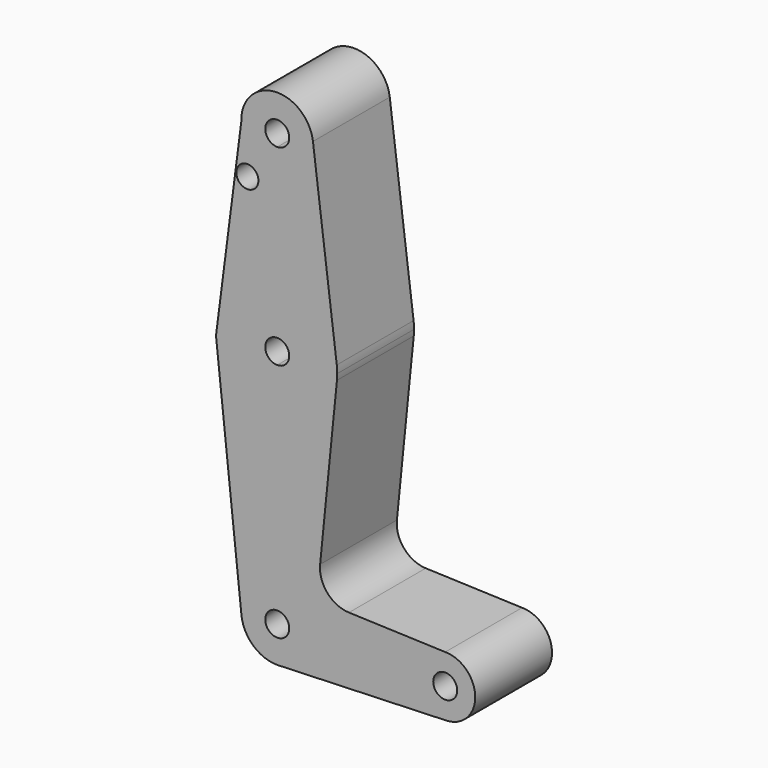
from build123d import *

# Parameters (mm, degrees)
F0_R     = 2.9240242171
F1_DEPTH = 25.4


with BuildPart() as f1:
    # F0 (on Front) → F1 (new body)
    with BuildSketch(Plane.XZ):
        with BuildLine():
            ThreePointArc((-9.5175899986, 89.6733759373), (-6.601047317, 83.1822994355), (0, 80.5240162142))
            ThreePointArc((0, 80.5240162142), (6.7351920908, 83.3138241234), (9.525, 90.0490162142))
            ThreePointArc((9.525, 90.0490162142), (9.5063048942, 90.6454994562), (9.4502929642, 91.2396412142))
            ThreePointArc((9.4502929642, 91.2396412142), (-0.7838551857, 99.5417079319), (-9.5175899986, 89.6733759373))
        make_face()
        with BuildLine():
            ThreePointArc((3.175, 90.0490162142), (2.2450640303, 87.8039521839), (0, 86.8740162142))
            ThreePointArc((0, 86.8740162142), (-2.2450640303, 92.2940802445), (3.175, 90.0490162142))
        make_face(mode=Mode.SUBTRACT)
        with BuildLine():
            ThreePointArc((9.525, 90.0490162142), (6.7351920908, 83.3138241234), (0, 80.5240162142))
            Line((0, 80.5240162142), (0, 55.1240162142))
            ThreePointArc((0, 55.1240162142), (10.5003255158, 51.1552662142), (15.7504882737, 41.2333912142))
            Line((15.7504882737, 41.2333912142), (9.4502929642, 91.2396412142))
            ThreePointArc((9.4502929642, 91.2396412142), (9.5063048942, 90.6454994562), (9.525, 90.0490162142))
        make_face()
        with BuildLine():
            Line((0, 55.1240162142), (0, 80.5240162142))
            ThreePointArc((0, 80.5240162142), (-6.601047317, 83.1822994355), (-9.5175899986, 89.6733759373))
            Line((-9.5175899986, 89.6733759373), (-15.7451890335, 41.2750091314))
            ThreePointArc((-15.7451890335, 41.2750091314), (-10.4845836217, 51.1691307808), (0, 55.1240162142))
        make_face()
        with Locations((-7.9077519476, 77.4001702666)):
            Circle(F0_R, mode=Mode.SUBTRACT)
        with BuildLine():
            ThreePointArc((15.7504882737, 41.2333912142), (10.5003255158, 51.1552662142), (0, 55.1240162142))
            Line((0, 55.1240162142), (0, 42.4240162142))
            ThreePointArc((0, 42.4240162142), (2.2450640303, 41.4940802445), (3.175, 39.2490162142))
            ThreePointArc((3.175, 39.2490162142), (2.2450640303, 37.0039521839), (0, 36.0740162142))
            Line((0, 36.0740162142), (0, 23.3740162142))
            ThreePointArc((0, 23.3740162142), (10.6492737428, 27.4758011159), (15.7954255641, 37.6615162142))
            ThreePointArc((15.7954255641, 37.6615162142), (15.8550939106, 38.4542696601), (15.875, 39.2490162142))
            ThreePointArc((15.875, 39.2490162142), (15.8438414904, 40.2431549508), (15.7504882737, 41.2333912142))
        make_face()
        with BuildLine():
            Line((0, 42.4240162142), (0, 55.1240162142))
            ThreePointArc((0, 55.1240162142), (-10.4845836217, 51.1691307808), (-15.7451890335, 41.2750091314))
            ThreePointArc((-15.7451890335, 41.2750091314), (-11.9201145666, 28.7644325925), (0, 23.3740162142))
            Line((0, 23.3740162142), (0, 36.0740162142))
            ThreePointArc((0, 36.0740162142), (-3.175, 39.2490162142), (0, 42.4240162142))
        make_face()
        with BuildLine():
            ThreePointArc((0, 23.3740162142), (-11.9201145666, 28.7644325925), (-15.7451890335, 41.2750091314))
            Line((-15.7451890335, 41.2750091314), (-16.2073878987, 37.6829875368))
            Line((-16.2073878987, 37.6829875368), (-9.4709206869, -25.2645351372))
            ThreePointArc((-9.4709206869, -25.2645351372), (-7.0844795723, -17.8842126898), (0, -14.7259837858))
            Line((0, -14.7259837858), (0, 23.3740162142))
        make_face()
        with BuildLine():
            ThreePointArc((15.7954255641, 37.6615162142), (10.6492737428, 27.4758011159), (0, 23.3740162142))
            Line((0, 23.3740162142), (0, -14.7259837858))
            ThreePointArc((0, -14.7259837858), (6.7351920908, -17.515791695), (9.525, -24.2509837858))
            Line((9.525, -24.2509837858), (36.5125, -24.2509837858))
            ThreePointArc((36.5125, -24.2509837858), (38.8373399243, -18.6383237101), (44.45, -16.3134837858))
            Line((44.45, -16.3134837858), (18.9672152943, -15.403384332))
            ThreePointArc((18.9672152943, -15.403384332), (13.2606937919, -12.6853206287), (11.3406209777, -6.6632297674))
            Line((11.3406209777, -6.6632297674), (15.7954255641, 37.6615162142))
        make_face()
        with BuildLine():
            Line((0, -21.0759837858), (0, -14.7259837858))
            ThreePointArc((0, -14.7259837858), (-7.0844795723, -17.8842126898), (-9.4709206869, -25.2645351372))
            ThreePointArc((-9.4709206869, -25.2645351372), (-6.366771096, -31.3354633582), (0, -33.7759837858))
            Line((0, -33.7759837858), (0.6773435479, -33.7518695718))
            ThreePointArc((0.6773435479, -33.7518695718), (6.9705567315, -30.7422828741), (9.525, -24.2509837858))
            Line((9.525, -24.2509837858), (3.175, -24.2509837858))
            ThreePointArc((3.175, -24.2509837858), (-2.2450640303, -26.4960478161), (0, -21.0759837858))
        make_face()
        with BuildLine():
            Line((36.5125, -24.2509837858), (9.525, -24.2509837858))
            ThreePointArc((9.525, -24.2509837858), (6.9705567315, -30.7422828741), (0.6773435479, -33.7518695718))
            Line((0.6773435479, -33.7518695718), (44.7324052746, -32.1834584004))
            ThreePointArc((44.7324052746, -32.1834584004), (38.9380895153, -29.9626165697), (36.5125, -24.2509837858))
        make_face()
        with BuildLine():
            Line((0.6773435479, -33.7518695718), (0, -33.7759837858))
            ThreePointArc((0, -33.7759837858), (0.3388863295, -33.7699533233), (0.6773435479, -33.7518695718))
        make_face()
        with BuildLine():
            ThreePointArc((44.45, -16.3134837858), (38.8373399243, -18.6383237101), (36.5125, -24.2509837858))
            ThreePointArc((36.5125, -24.2509837858), (38.9380895153, -29.9626165697), (44.7324052746, -32.1834584004))
            ThreePointArc((44.7324052746, -32.1834584004), (50.1616327839, -29.7628942705), (52.3875, -24.2509837858))
            ThreePointArc((52.3875, -24.2509837858), (50.0626600757, -18.6383237101), (44.45, -16.3134837858))
        make_face()
        with BuildLine():
            ThreePointArc((47.625, -24.2509837858), (44.45, -27.4259837858), (41.275, -24.2509837858))
            ThreePointArc((41.275, -24.2509837858), (44.45, -21.0759837858), (47.625, -24.2509837858))
        make_face(mode=Mode.SUBTRACT)
        with BuildLine():
            ThreePointArc((9.525, -24.2509837858), (6.7351920908, -17.515791695), (0, -14.7259837858))
            Line((0, -14.7259837858), (0, -21.0759837858))
            ThreePointArc((0, -21.0759837858), (2.2450640303, -22.0059197555), (3.175, -24.2509837858))
            Line((3.175, -24.2509837858), (9.525, -24.2509837858))
        make_face()
    extrude(amount=F1_DEPTH)


solid = f1.part
